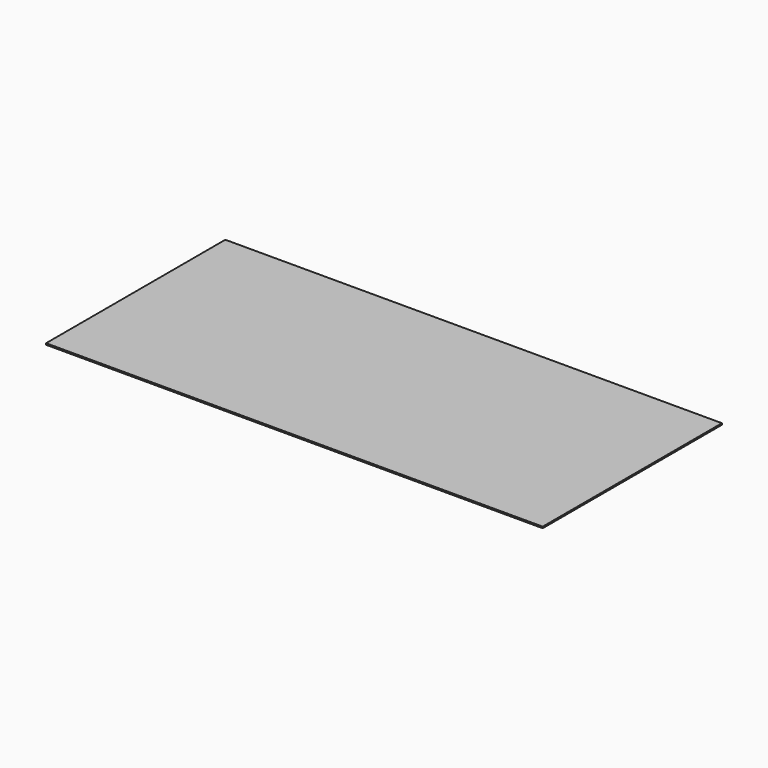
from build123d import *

# Parameters (mm, degrees)
F0_W     = 44.4375295192
F0_H     = 61.4943616092
F1_DEPTH = 2.54
F3_W     = 87.1050208807
F3_H     = 39.2954982817
F4_DEPTH = 0.254


with BuildPart() as f1:
    # F0 (on Front) → F1 (new body)
    with BuildSketch(Plane.XZ):
        with Locations((2.0198868588, 0)):
            Rectangle(F0_W, F0_H)
    extrude(amount=F1_DEPTH)


with BuildPart() as f4:
    # F3 (on Top) → F4 (new body)
    with BuildSketch(Plane.XY):
        Rectangle(F3_W, F3_H)
    extrude(amount=F4_DEPTH)


solid = f4.part
